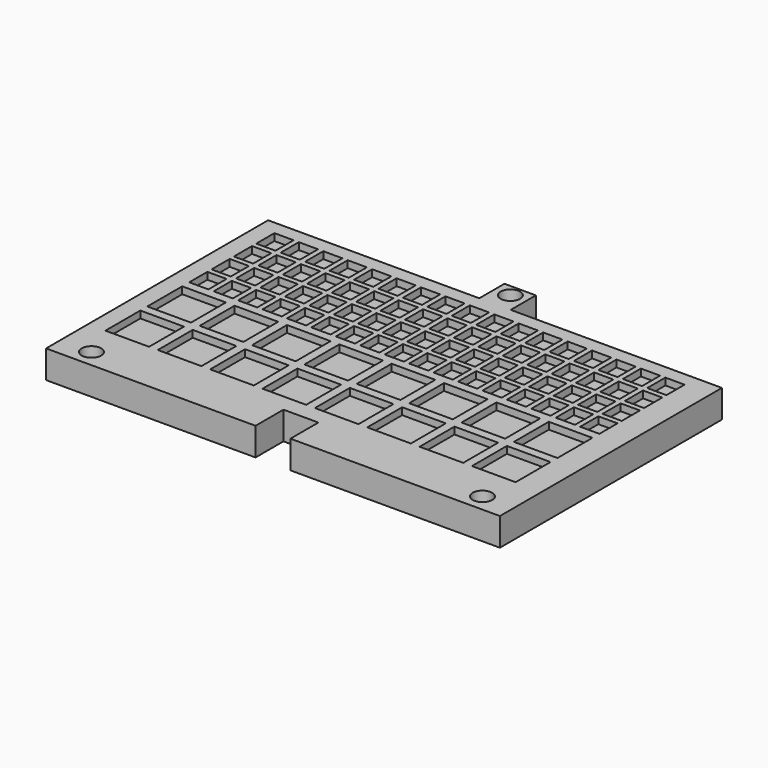
from build123d import *

# Parameters (mm, degrees)
BOX001_W         = 5.5
BOX001_H         = 6.5
BOX001_DEPTH     = 2
ARRAY001_X_COUNT = 17
ARRAY001_X_PITCH = 7
ARRAY001_Y_COUNT = 4
ARRAY001_Y_PITCH = 8
SKETCH001_R      = 2.8
EXTRUDE001_DEPTH = 10
BOX_W            = 12.5
BOX_H            = 12.5
BOX_DEPTH        = 2
ARRAY_X_COUNT    = 8
ARRAY_X_PITCH    = 15
ARRAY_Y_COUNT    = 2
ARRAY_Y_PITCH    = 15
SKETCH_R         = 1.75
EXTRUDE_DEPTH    = 8


with BuildPart() as array001:
    # Box001 → Box001 (new body)
    with BuildSketch(Plane(origin=(-60, 0, 6), x_dir=(1, 0, 0), z_dir=(0, 0, 1))):
        with Locations((2.75, 3.25)):
            Rectangle(BOX001_W, BOX001_H)
    extrude(amount=BOX001_DEPTH)

    # Array001 X: Array001 ×17


with BuildPart() as array001_1:
    add(array001.part)
    with Locations(*[(i * ARRAY001_X_PITCH, 0, 0) for i in range(1, ARRAY001_X_COUNT)]):
        add(array001.part)

    # Array001 Y: Array001 ×4


with BuildPart() as array001_2:
    add(array001_1.part)
    with Locations(*[(0, i * ARRAY001_Y_PITCH, 0) for i in range(1, ARRAY001_Y_COUNT)]):
        add(array001_1.part)


with BuildPart() as extrude001:
    # Sketch001 → Extrude001 (new body)
    with BuildSketch(Plane.XY):
        with Locations((0, 40)):
            Circle(SKETCH001_R)
        with Locations((56, -40)):
            Circle(SKETCH001_R)
        with Locations((-56, -40)):
            Circle(SKETCH001_R)
    extrude(amount=EXTRUDE001_DEPTH)


with BuildPart() as extrude001_1:
    # Extrude001 placement: moved
    add(extrude001.part.moved(Location((0, 0, 2))))


with BuildPart() as fusion:
    # Box → Box (new body)
    with BuildSketch(Plane(origin=(-60, -30, 6), x_dir=(1, 0, 0), z_dir=(0, 0, 1))):
        with Locations((6.25, 6.25)):
            Rectangle(BOX_W, BOX_H)
    extrude(amount=BOX_DEPTH)

    # Array X: Fusion ×8


with BuildPart() as fusion_1:
    add(fusion.part)
    with Locations(*[(i * ARRAY_X_PITCH, 0, 0) for i in range(1, ARRAY_X_COUNT)]):
        add(fusion.part)

    # Array Y: Fusion ×2


with BuildPart() as fusion_2:
    add(fusion_1.part)
    with Locations(*[(0, i * ARRAY_Y_PITCH, 0) for i in range(1, ARRAY_Y_COUNT)]):
        add(fusion_1.part)

    # Fusion: union Array001, Extrude001
    add(array001_2.part)
    add(extrude001_1.part)


with BuildPart() as cut:
    # Sketch → Extrude (new body)
    with BuildSketch(Plane.XY):
        Polygon((-65, -45), (-5, -45), (-5, -35), (5, -35), (5, -45), (65, -45), (65, 34.5), (4.5, 34.5), (4.5, 43.5), (-4.5, 43.5), (-4.5, 34.5), (-65, 34.5), align=None)
        with Locations((0, 40)):
            Circle(SKETCH_R, mode=Mode.SUBTRACT)
        with Locations((56, -40)):
            Circle(SKETCH_R, mode=Mode.SUBTRACT)
        with Locations((-56, -40)):
            Circle(SKETCH_R, mode=Mode.SUBTRACT)
    extrude(amount=EXTRUDE_DEPTH)

    # Cut: cut Fusion
    add(fusion_2.part, mode=Mode.SUBTRACT)


solid = cut.part
